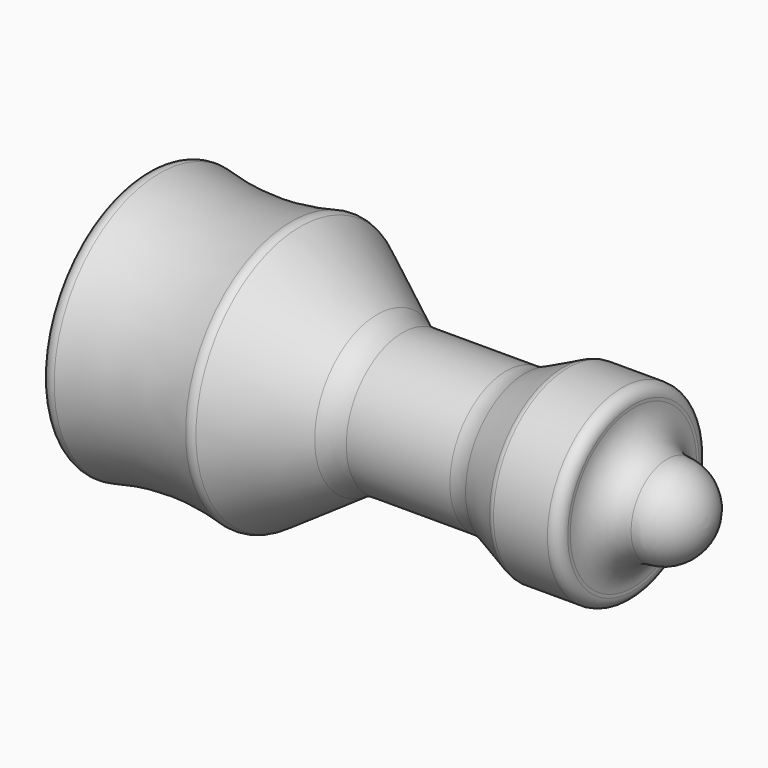
from build123d import *


with BuildPart() as f1:
    # F0 (on Top) → F1 (revolve)
    with BuildSketch(Plane.XY):
        with BuildLine():
            Line((-31.75, 0), (0, 0))
            ThreePointArc((0, 0), (-0.743949, 1.796051), (-2.54, 2.54))
            Line((-2.54, 2.54), (-2.373731, 2.54))
            ThreePointArc((-2.373731, 2.54), (-3.72077, 3.097962), (-4.278731, 4.445))
            Line((-4.278731, 4.445), (-4.278731, 4.622136))
            ThreePointArc((-4.278731, 4.622136), (-4.464718, 5.071149), (-4.913731, 5.257136))
            Line((-4.913731, 5.257136), (-7.948658, 5.257136))
            ThreePointArc((-7.948658, 5.257136), (-8.085443, 5.242229), (-8.215805, 5.198207))
            Line((-8.215805, 5.198207), (-10.37303, 4.197813))
            ThreePointArc((-10.37303, 4.197813), (-10.894481, 4.021724), (-11.441621, 3.962095))
            Line((-11.441621, 3.962095), (-17.277898, 3.962095))
            ThreePointArc((-17.277898, 3.962095), (-18.024295, 4.074238), (-18.704785, 4.400763))
            Line((-18.704785, 4.400763), (-23.040049, 7.344577))
            ThreePointArc((-23.040049, 7.344577), (-23.283857, 7.444125), (-23.547087, 7.436197))
            ThreePointArc((-23.547087, 7.436197), (-27.256429, 6.985074), (-30.968462, 7.41349))
            ThreePointArc((-30.968462, 7.41349), (-31.50881, 7.293764), (-31.75, 6.795629))
            Line((-31.75, 6.795629), (-31.75, 0))
        make_face()
    revolve(axis=Axis((-15.875, 0, 0), (-1, 0, 0)))


solid = f1.part
